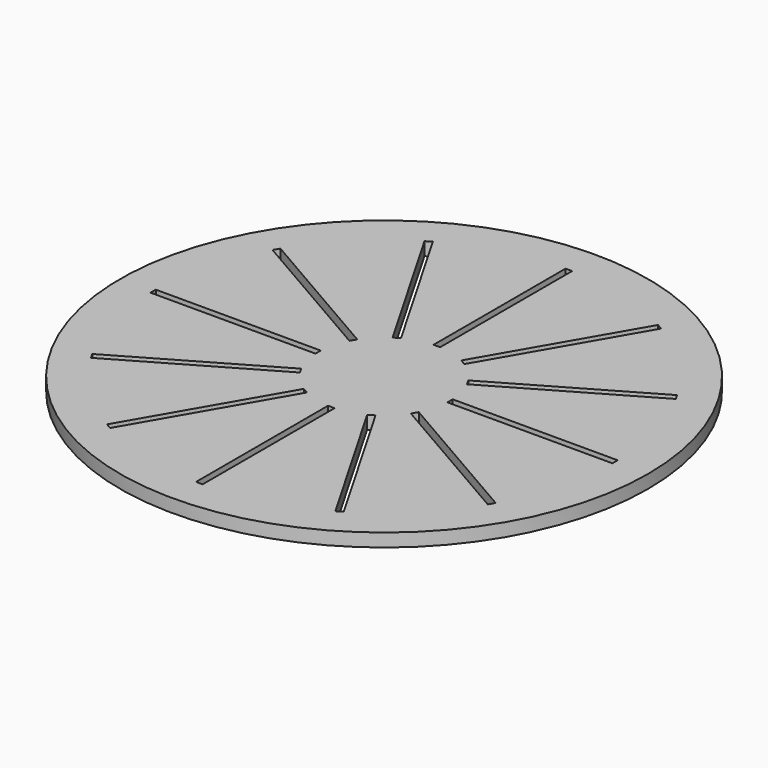
from build123d import *

# Parameters (mm, degrees)
F0_R     = 40
F0_W     = 1
F0_H     = 25
F0_W_2   = 25
F0_H_2   = 1
F1_DEPTH = 2


with BuildPart() as f1:
    # F0 (on Top) → F1 (new body)
    with BuildSketch(Plane.XY):
        Circle(F0_R)
        Polygon((-4.566987, -8.910254), (-17.066987, -30.560889), (-17.933013, -30.060889), (-5.433013, -8.410254), align=None, mode=Mode.SUBTRACT)
        Polygon((-8.410254, -5.433013), (-30.060889, -17.933013), (-30.560889, -17.066987), (-8.910254, -4.566987), align=None, mode=Mode.SUBTRACT)
        with Locations((0, -22.5)):
            Rectangle(F0_W, F0_H, mode=Mode.SUBTRACT)
        Polygon((5.433013, -8.410254), (17.933013, -30.060889), (17.066987, -30.560889), (4.566987, -8.910254), align=None, mode=Mode.SUBTRACT)
        Polygon((8.910254, -4.566987), (30.560889, -17.066987), (30.060889, -17.933013), (8.410254, -5.433013), align=None, mode=Mode.SUBTRACT)
        with Locations((-22.5, 0)):
            Rectangle(F0_W_2, F0_H_2, mode=Mode.SUBTRACT)
        Polygon((-8.910254, 4.566987), (-30.560889, 17.066987), (-30.060889, 17.933013), (-8.410254, 5.433013), align=None, mode=Mode.SUBTRACT)
        Polygon((-5.433013, 8.410254), (-17.933013, 30.060889), (-17.066987, 30.560889), (-4.566987, 8.910254), align=None, mode=Mode.SUBTRACT)
        Polygon((8.410254, 5.433013), (30.060889, 17.933013), (30.560889, 17.066987), (8.910254, 4.566987), align=None, mode=Mode.SUBTRACT)
        Polygon((4.566987, 8.910254), (17.066987, 30.560889), (17.933013, 30.060889), (5.433013, 8.410254), align=None, mode=Mode.SUBTRACT)
        with Locations((22.5, 0)):
            Rectangle(F0_W_2, F0_H_2, mode=Mode.SUBTRACT)
        with Locations((0, 22.5)):
            Rectangle(F0_W, F0_H, mode=Mode.SUBTRACT)
    extrude(amount=F1_DEPTH)


solid = f1.part
